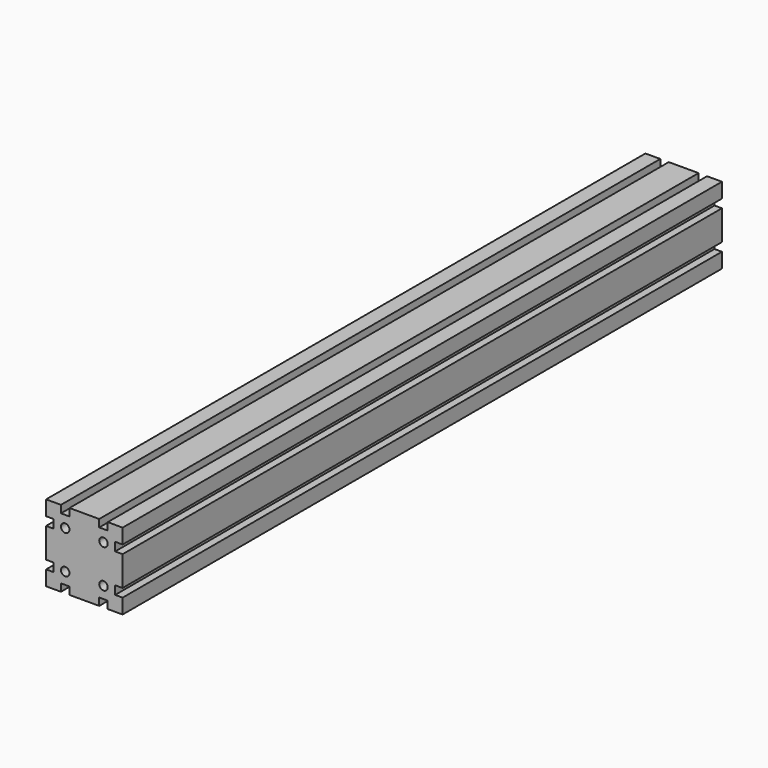
from build123d import *

# Parameters (mm, degrees)
F0_R     = 5
F1_DEPTH = 881


with BuildPart() as f1:
    # F0 (on Front) → F1 (new body)
    with BuildSketch(Plane.XZ):
        Polygon((36.25, -45), (45, -45), (45, -27.5), (36.25, -27.5), (36.25, -17.5), (45, -17.5), (45, 17.5), (36.25, 17.5), (36.25, 27.5), (45, 27.5), (45, 45), (27.5, 45), (27.5, 36.25), (17.5, 36.25), (17.5, 45), (-17.5, 45), (-17.5, 36.25), (-27.5, 36.25), (-27.5, 45), (-45, 45), (-45, 27.5), (-36.25, 27.5), (-36.25, 17.5), (-45, 17.5), (-45, -17.5), (-36.25, -17.5), (-36.25, -27.5), (-45, -27.5), (-45, -45), (-27.5, -45), (-27.5, -36.25), (-17.5, -36.25), (-17.5, -45), (17.5, -45), (17.5, -36.25), (27.5, -36.25), (27.5, -45), align=None)
        with Locations((-22.5, -22.5)):
            Circle(F0_R, mode=Mode.SUBTRACT)
        with Locations((22.5, -22.5)):
            Circle(F0_R, mode=Mode.SUBTRACT)
        with Locations((-22.5, 22.5)):
            Circle(F0_R, mode=Mode.SUBTRACT)
        with Locations((22.5, 22.5)):
            Circle(F0_R, mode=Mode.SUBTRACT)
    extrude(amount=F1_DEPTH)


solid = f1.part
